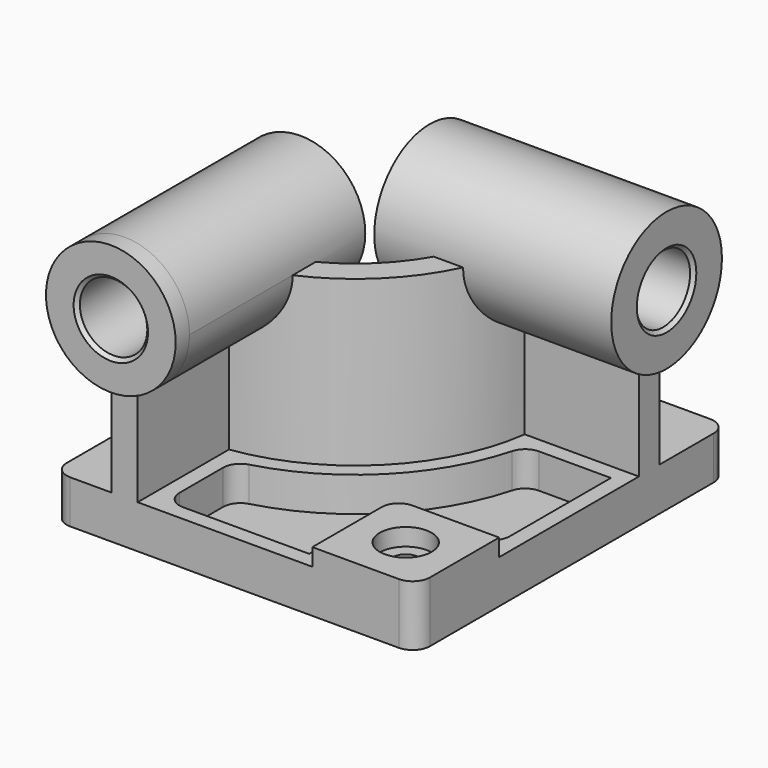
from build123d import *

# Parameters (mm, degrees)
F0_W            = 210
F0_H            = 225
F1_DEPTH        = 25
F3_DEPTH        = 95
F4_R            = 37.5
F5_DEPTH        = 10
F5_DEPTH_BACK   = 127
F7_DEPTH        = 10
F7_DEPTH_BACK   = 127
F8_W            = 60
F8_H            = 60
F9_DEPTH        = 10
F10_R           = 10
F12_DEPTH       = 20
F14_D           = 15
F14_CBORE_D     = 30
F14_CBORE_DEPTH = 10
F15_R           = 10
F17_R           = 19.5
F18_DEPTH       = 220.001
F16_R           = 19.5
F19_DEPTH       = 235.001
F20_SIZE        = 2
F21_R           = 10


with BuildPart() as f1:
    # F0 (on Top) → F1 (new body)
    with BuildSketch(Plane.XY):
        with Locations((-36.6346123987, -2.6086959988)):
            Rectangle(F0_W, F0_H)
    extrude(amount=F1_DEPTH)

    # F2 (on face) → F3 (join)
    with BuildSketch(Plane.XY.offset(25)):
        with BuildLine():
            Line((68.3653876013, 45.8913040012), (68.3653876013, 60.8913040012))
            Line((68.3653876013, 60.8913040012), (-11.6346123987, 60.8913040012))
            ThreePointArc((-11.6346123987, 60.8913040012), (-39.7523614048, -6.9909469927), (-107.6346123987, -35.1086959988))
            Line((-107.6346123987, -35.1086959988), (-107.6346123987, -115.1086959988))
            Line((-107.6346123987, -115.1086959988), (-92.6346123987, -115.1086959988))
            Line((-92.6346123987, -115.1086959988), (-92.6346123987, -49.0905126777))
            ThreePointArc((-92.6346123987, -49.0905126777), (-29.145759687, -17.5975487105), (2.3472042802, 45.8913040012))
            Line((2.3472042802, 45.8913040012), (68.3653876013, 45.8913040012))
        make_face()
    extrude(amount=F3_DEPTH)

    # F4 (on face) → F5 (join, two sides)
    with BuildSketch(Plane.XZ.offset(115.1086959988)) as f5_sk:
        with Locations((-100.1346123987, 120)):
            Circle(F4_R)
    extrude(amount=F5_DEPTH)
    extrude(f5_sk.sketch, amount=-F5_DEPTH_BACK)

    # F6 (on face) → F7 (join, two sides)
    with BuildSketch(Plane.YZ.offset(68.3653876013)) as f7_sk:
        with BuildLine():
            ThreePointArc((60.8913040012, 80.7094158862), (84.2133740161, 94.504902432), (93.3913040012, 120))
            ThreePointArc((93.3913040012, 120), (27.8962064332, 150.8220700148), (45.8913040012, 80.7094158862))
            Line((45.8913040012, 80.7094158862), (45.8913040012, 120))
            Line((45.8913040012, 120), (60.8913040012, 120))
            Line((60.8913040012, 120), (60.8913040012, 80.7094158862))
        make_face()
        with BuildLine():
            Line((45.8913040012, 120), (45.8913040012, 80.7094158862))
            ThreePointArc((45.8913040012, 80.7094158862), (53.3913040012, 80), (60.8913040012, 80.7094158862))
            Line((60.8913040012, 80.7094158862), (60.8913040012, 120))
            Line((60.8913040012, 120), (45.8913040012, 120))
        make_face()
    extrude(amount=F7_DEPTH)
    extrude(f7_sk.sketch, amount=-F7_DEPTH_BACK)

    # F8 (on face) → F9 (join)
    with BuildSketch(Plane.XY.offset(25)):
        with Locations((38.3653876013, -85.1086959988)):
            Rectangle(F8_W, F8_H)
    extrude(amount=F9_DEPTH)

    # F10
    f10_edges = [f1.edges().sort_by_distance(p)[0] for p in [
        (8.365388, -55.108696, 30),
    ]]
    fillet(f10_edges, radius=F10_R)

    # F11 (on face) → F12 (cut)
    with BuildSketch(Plane.XY.offset(25)):
        with BuildLine():
            ThreePointArc((9.9408952549, 36.8913040012), (-22.7817986563, -23.9615097412), (-83.6346123987, -56.6842036524))
            Line((-83.6346123987, -56.6842036524), (-83.6346123987, -106.1086959988))
            Line((-83.6346123987, -106.1086959988), (-0.6346123987, -106.1086959988))
            Line((-0.6346123987, -106.1086959988), (-0.6346123987, -65.1086959988))
            ThreePointArc((-0.6346123987, -65.1086959988), (4.9303587587, -51.6736671562), (18.3653876013, -46.1086959988))
            Line((18.3653876013, -46.1086959988), (59.3653876013, -46.1086959988))
            Line((59.3653876013, -46.1086959988), (59.3653876013, 36.8913040012))
            Line((59.3653876013, 36.8913040012), (9.9408952549, 36.8913040012))
        make_face()
    extrude(amount=-F12_DEPTH, mode=Mode.SUBTRACT)

    # F14 (through all)
    with Locations(Plane.XY.offset(35)):
        with Locations((38.3653876013, -85.1086959988)):
            CounterBoreHole(F14_D / 2, F14_CBORE_D / 2, F14_CBORE_DEPTH)

    # F15
    f15_edges = [f1.edges().sort_by_distance(p)[0] for p in [
        (-83.634612, -56.684204, 15),
        (9.940895, 36.891304, 15),
        (-83.634612, -106.108696, 15),
        (59.365388, -46.108696, 15),
    ]]
    fillet(f15_edges, radius=F15_R)

    # F17 (on face) → F18 (cut, through all)
    with BuildSketch(Plane.YZ.offset(78.3653876013)):
        with Locations((53.3913040012, 120)):
            Circle(F17_R)
    extrude(amount=-F18_DEPTH, mode=Mode.SUBTRACT)

    # F16 (on face) → F19 (cut, through all)
    with BuildSketch(Plane.XZ.offset(125.1086959988)):
        with Locations((-100.1346123987, 120)):
            Circle(F16_R)
    extrude(amount=-F19_DEPTH, mode=Mode.SUBTRACT)

    # F20
    f20_edges = [f1.edges().sort_by_distance(p)[0] for p in [
        (-119.634612, -125.108696, 120),
        (78.365388, 33.891304, 120),
        (-119.634612, 11.891304, 120),
        (-58.634612, 33.891304, 120),
    ]]
    chamfer(f20_edges, length=F20_SIZE)

    # F21
    f21_edges = [f1.edges().sort_by_distance(p)[0] for p in [
        (68.365388, -115.108696, 17.5),
        (-141.634612, -115.108696, 12.5),
        (68.365388, 109.891304, 12.5),
        (-141.634612, 109.891304, 12.5),
    ]]
    fillet(f21_edges, radius=F21_R)


solid = f1.part
